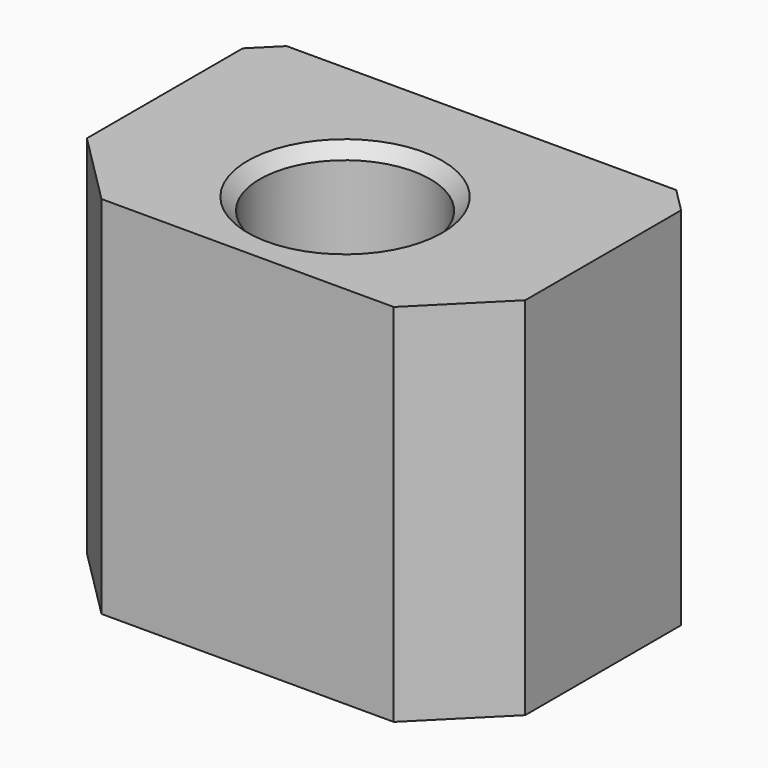
from build123d import *

# Parameters (mm, degrees)
F0_W     = 18
F0_H     = 12
F0_R     = 3.5
F1_DEPTH = 15
F2_SIZE  = 3
F3_SIZE  = 1
F4_SIZE  = 0.5


with BuildPart() as f1:
    # F0 (on Top) → F1 (new body)
    with BuildSketch(Plane.XY):
        Rectangle(F0_W, F0_H)
        with Locations((0, -1)):
            Circle(F0_R, mode=Mode.SUBTRACT)
    extrude(amount=F1_DEPTH)

    # F2
    f2_edges = [f1.edges().sort_by_distance(p)[0] for p in [
        (9, -6, 7.5),
        (-9, -6, 7.5),
    ]]
    chamfer(f2_edges, length=F2_SIZE)

    # F3
    f3_edges = [f1.edges().sort_by_distance(p)[0] for p in [
        (9, 6, 7.5),
        (-9, 6, 7.5),
    ]]
    chamfer(f3_edges, length=F3_SIZE)

    # F4
    f4_edges = [f1.edges().sort_by_distance(p)[0] for p in [
        (-3.5, -1, 0),
        (-3.5, -1, 15),
    ]]
    chamfer(f4_edges, length=F4_SIZE)


solid = f1.part
